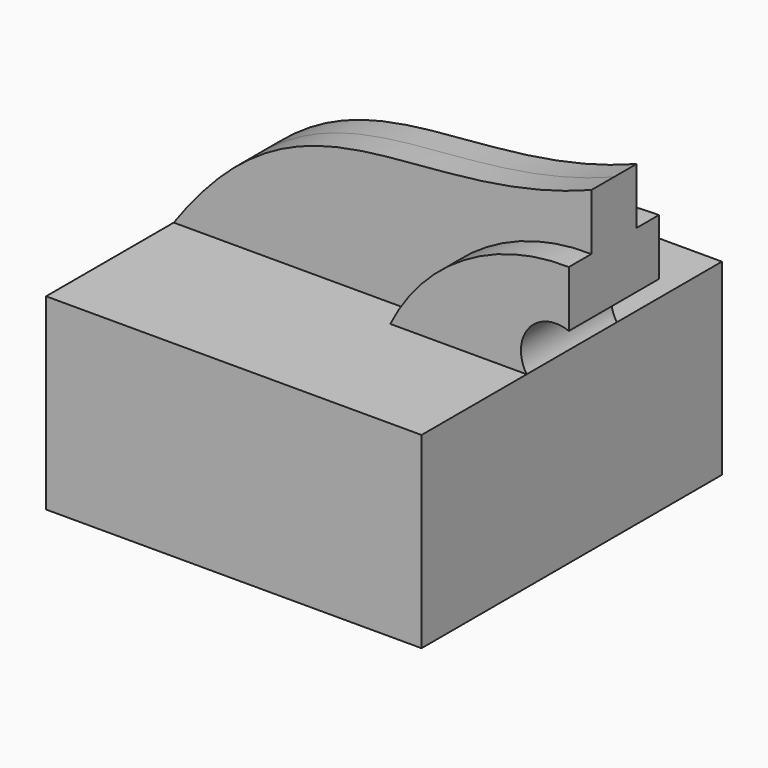
from build123d import *

# Parameters (mm, degrees)
F1_DEPTH = 50
F2_DEPTH = 15
F3_DEPTH = 7.5


with BuildPart() as f1:
    # F0 (on Front) → F1 (new body, symmetric)
    with BuildSketch(Plane.XZ):
        Polygon((17.809639, 17.96415), (-45.859891, 17.96415), (-45.859891, -32.03585), (54.140109, -32.03585), (54.140109, 17.96415), align=None)
    extrude(amount=F1_DEPTH, both=True)

    # F0 (on Front) → F2 (join, symmetric)
    with BuildSketch(Plane.XZ):
        with BuildLine():
            ThreePointArc((65.37061, 46.769912), (37.400469, 39.284538), (17.809639, 17.96415))
            Line((17.809639, 17.96415), (54.140109, 17.96415))
            ThreePointArc((54.140109, 17.96415), (54.702773, 28.977132), (65.37061, 31.769912))
            Line((65.37061, 31.769912), (65.37061, 46.769912))
        make_face()
    extrude(amount=F2_DEPTH, both=True)

    # F0 (on Front) → F3 (join, symmetric)
    with BuildSketch(Plane.XZ):
        with BuildLine():
            add(Edge.make_bspline(
                [(65.37061, 61.769912), (17.809639, 43.326717), (-11.461159, 66.434294), (-45.859891, 17.96415)],
                knots=[0, 0, 0, 0, 119.545679, 119.545679, 119.545679, 119.545679], degree=3))
            Line((-45.859891, 17.96415), (17.809639, 17.96415))
            ThreePointArc((17.809639, 17.96415), (37.400469, 39.284538), (65.37061, 46.769912))
            Line((65.37061, 46.769912), (65.37061, 61.769912))
        make_face()
    extrude(amount=F3_DEPTH, both=True)


solid = f1.part
